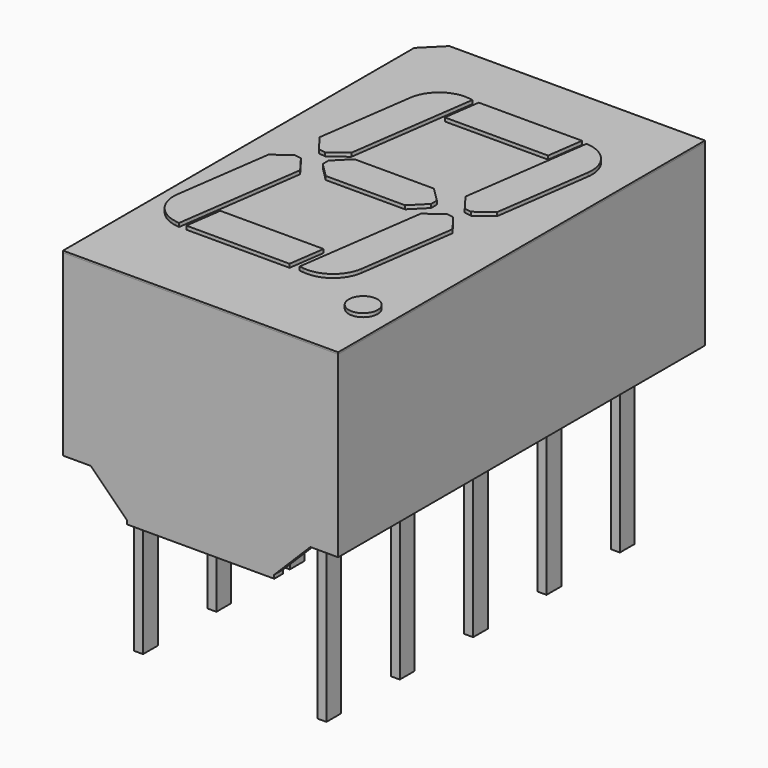
from build123d import *

# Parameters (mm, degrees)
BOX003_W                  = 0.25
BOX003_H                  = 1.5
BOX003_DEPTH              = 1.5
BOX003_ROLL_ANGLE         = 45
BOX002_W                  = 0.25
BOX002_H                  = 0.51
BOX002_DEPTH              = 6
BOX005_W                  = 0.25
BOX005_H                  = 1.5
BOX005_DEPTH              = 1.5
BOX005_ROLL_ANGLE         = 45
BOX004_W                  = 0.25
BOX004_H                  = 0.51
BOX004_DEPTH              = 6
BOX007_W                  = 0.25
BOX007_H                  = 1.5
BOX007_DEPTH              = 1.5
BOX007_ROLL_ANGLE         = 45
BOX006_W                  = 0.25
BOX006_H                  = 0.51
BOX006_DEPTH              = 6
BOX009_W                  = 0.25
BOX009_H                  = 1.5
BOX009_DEPTH              = 1.5
BOX009_ROLL_ANGLE         = 45
BOX008_W                  = 0.25
BOX008_H                  = 0.51
BOX008_DEPTH              = 6
BOX011_W                  = 0.25
BOX011_H                  = 1.5
BOX011_DEPTH              = 1.5
BOX011_ROLL_ANGLE         = 45
BOX010_W                  = 0.25
BOX010_H                  = 0.51
BOX010_DEPTH              = 6
BOX021_W                  = 0.25
BOX021_H                  = 1.5
BOX021_DEPTH              = 1.5
BOX021_ROLL_ANGLE         = 45
BOX020_W                  = 0.25
BOX020_H                  = 0.51
BOX020_DEPTH              = 6
BOX029_W                  = 0.25
BOX029_H                  = 1.5
BOX029_DEPTH              = 1.5
BOX029_ROLL_ANGLE         = 45
BOX028_W                  = 0.25
BOX028_H                  = 0.51
BOX028_DEPTH              = 6
BOX023_W                  = 0.25
BOX023_H                  = 1.5
BOX023_DEPTH              = 1.5
BOX023_ROLL_ANGLE         = 45
BOX022_W                  = 0.25
BOX022_H                  = 0.51
BOX022_DEPTH              = 6
BOX025_W                  = 0.25
BOX025_H                  = 1.5
BOX025_DEPTH              = 1.5
BOX025_ROLL_ANGLE         = 45
BOX024_W                  = 0.25
BOX024_H                  = 0.51
BOX024_DEPTH              = 6
BOX027_W                  = 0.25
BOX027_H                  = 1.5
BOX027_DEPTH              = 1.5
BOX027_ROLL_ANGLE         = 45
BOX026_W                  = 0.25
BOX026_H                  = 0.51
BOX026_DEPTH              = 6
BOX042_W                  = 2
BOX042_H                  = 1
BOX042_DEPTH              = 10
BOX042_PLACEMENT_ANGLE    = 45
BOX041_W                  = 3
BOX041_H                  = 22
BOX041_DEPTH              = 1.1
CHAMFER016_SIZE           = 1
BOX_W                     = 3
BOX_H                     = 22
BOX_DEPTH                 = 1.1
CHAMFER_SIZE              = 1
BOX001_W                  = 20
BOX001_H                  = 12
BOX001_DEPTH              = 1.1
SKETCH_W                  = 7.62
SKETCH_H                  = 12.7
PAD_DEPTH                 = 6.09
BOX033_W                  = 4
BOX033_H                  = 1
BOX033_DEPTH              = 2
BOX033_PLACEMENT_ANGLE    = -8
CHAMFER006_SIZE           = 0.4
CHAMFER007_SIZE           = 0.4
FILLET005_R               = 0.9
BOX032_W                  = 4
BOX032_H                  = 1
BOX032_DEPTH              = 2
BOX032_PLACEMENT_ANGLE    = -8
CHAMFER004_SIZE           = 0.4
CHAMFER005_SIZE           = 0.4
FILLET_R                  = 0.9
BOX043_W                  = 4
BOX043_H                  = 1
BOX043_DEPTH              = 2
BOX043_PLACEMENT_ANGLE    = -8
CHAMFER017_SIZE           = 0.4
CHAMFER018_SIZE           = 0.4
FILLET004_R               = 0.9
BOX037_W                  = 1
BOX037_H                  = 3
BOX037_DEPTH              = 2
CHAMFER012_SIZE           = 0.4
CHAMFER013_SIZE           = 0.4
CHAMFER014_SIZE           = 0.4
CHAMFER015_SIZE           = 0.4
BOX035_W                  = 3
BOX035_H                  = 3
BOX035_DEPTH              = 2
BOX035_PLACEMENT_ANGLE    = -8
BOX036_W                  = 3
BOX036_H                  = 1
BOX036_DEPTH              = 2
BOX036_PLACEMENT_ANGLE    = -8
BOX034_W                  = 1
BOX034_H                  = 4
BOX034_DEPTH              = 2
CYLINDER016_R             = 0.4
CYLINDER016_DEPTH         = 2
BOX030_W                  = 4
BOX030_H                  = 1
BOX030_DEPTH              = 2
BOX030_PLACEMENT_ANGLE    = -8
CHAMFER010_SIZE           = 0.4
CHAMFER011_SIZE           = 0.4
FILLET003_R               = 0.9
BOX039_W                  = 3
BOX039_H                  = 2
BOX039_DEPTH              = 2
BOX039_PLACEMENT_ANGLE    = -8
BOX040_W                  = 3
BOX040_H                  = 1
BOX040_DEPTH              = 2
BOX040_PLACEMENT_ANGLE    = -8
BOX038_W                  = 1
BOX038_H                  = 4
BOX038_DEPTH              = 2
FUSION014_PLACEMENT_ANGLE = 90
BOX045_W                  = 2
BOX045_H                  = 1
BOX045_DEPTH              = 10
BOX045_PLACEMENT_ANGLE    = 45
BOX044_W                  = 7.62
BOX044_H                  = 12.7
BOX044_DEPTH              = 0.05


with BuildPart() as kub003:
    # Box003 → Box003 (new body)
    with BuildSketch(Plane.XY):
        with Locations((0.125, 0.75)):
            Rectangle(BOX003_W, BOX003_H)
    extrude(amount=BOX003_DEPTH)


with BuildPart() as kub003_1:
    # Box003 roll: moved
    add(kub003.part.rotate(Axis((0, 0, 0), (1, 0, 0)), BOX003_ROLL_ANGLE))


with BuildPart() as kub003_2:
    # Box003 placement: moved
    add(kub003_1.part.moved(Location((-0.12, 0, 0.3))))


with BuildPart() as leg001:
    # Box002 → Box002 (new body)
    with BuildSketch(Plane(origin=(-0.12, -0.25, -3.7), x_dir=(1, 0, 0), z_dir=(0, 0, 1))):
        with Locations((0.125, 0.255)):
            Rectangle(BOX002_W, BOX002_H)
    extrude(amount=BOX002_DEPTH)

    # Fusion: union Kub003
    add(kub003_2.part)


with BuildPart() as kub005:
    # Box005 → Box005 (new body)
    with BuildSketch(Plane.XY):
        with Locations((0.125, 0.75)):
            Rectangle(BOX005_W, BOX005_H)
    extrude(amount=BOX005_DEPTH)


with BuildPart() as kub005_1:
    # Box005 roll: moved
    add(kub005.part.rotate(Axis((0, 0, 0), (1, 0, 0)), BOX005_ROLL_ANGLE))


with BuildPart() as kub005_2:
    # Box005 placement: moved
    add(kub005_1.part.moved(Location((-0.12, 0, 0.3))))


with BuildPart() as leg002:
    # Box004 → Box004 (new body)
    with BuildSketch(Plane(origin=(-0.12, -0.2505, -3.7), x_dir=(1, 0, 0), z_dir=(0, 0, 1))):
        with Locations((0.125, 0.255)):
            Rectangle(BOX004_W, BOX004_H)
    extrude(amount=BOX004_DEPTH)

    # Fusion001: union Kub005
    add(kub005_2.part)


with BuildPart() as leg002_1:
    # Fusion001 placement: moved
    add(leg002.part.moved(Location((0, -2.54, 0))))


with BuildPart() as kub007:
    # Box007 → Box007 (new body)
    with BuildSketch(Plane.XY):
        with Locations((0.125, 0.75)):
            Rectangle(BOX007_W, BOX007_H)
    extrude(amount=BOX007_DEPTH)


with BuildPart() as kub007_1:
    # Box007 roll: moved
    add(kub007.part.rotate(Axis((0, 0, 0), (1, 0, 0)), BOX007_ROLL_ANGLE))


with BuildPart() as kub007_2:
    # Box007 placement: moved
    add(kub007_1.part.moved(Location((-0.12, 0, 0.3))))


with BuildPart() as leg003:
    # Box006 → Box006 (new body)
    with BuildSketch(Plane(origin=(-0.12, -0.2505, -3.7), x_dir=(1, 0, 0), z_dir=(0, 0, 1))):
        with Locations((0.125, 0.255)):
            Rectangle(BOX006_W, BOX006_H)
    extrude(amount=BOX006_DEPTH)

    # Fusion002: union Kub007
    add(kub007_2.part)


with BuildPart() as leg003_1:
    # Fusion002 placement: moved
    add(leg003.part.moved(Location((0, -5.08, 0))))


with BuildPart() as kub009:
    # Box009 → Box009 (new body)
    with BuildSketch(Plane.XY):
        with Locations((0.125, 0.75)):
            Rectangle(BOX009_W, BOX009_H)
    extrude(amount=BOX009_DEPTH)


with BuildPart() as kub009_1:
    # Box009 roll: moved
    add(kub009.part.rotate(Axis((0, 0, 0), (1, 0, 0)), BOX009_ROLL_ANGLE))


with BuildPart() as kub009_2:
    # Box009 placement: moved
    add(kub009_1.part.moved(Location((-0.12, 0, 0.3))))


with BuildPart() as leg004:
    # Box008 → Box008 (new body)
    with BuildSketch(Plane(origin=(-0.12, -0.2505, -3.7), x_dir=(1, 0, 0), z_dir=(0, 0, 1))):
        with Locations((0.125, 0.255)):
            Rectangle(BOX008_W, BOX008_H)
    extrude(amount=BOX008_DEPTH)

    # Fusion003: union Kub009
    add(kub009_2.part)


with BuildPart() as leg004_1:
    # Fusion003 placement: moved
    add(leg004.part.moved(Location((0, -7.62, 0))))


with BuildPart() as kub011:
    # Box011 → Box011 (new body)
    with BuildSketch(Plane.XY):
        with Locations((0.125, 0.75)):
            Rectangle(BOX011_W, BOX011_H)
    extrude(amount=BOX011_DEPTH)


with BuildPart() as kub011_1:
    # Box011 roll: moved
    add(kub011.part.rotate(Axis((0, 0, 0), (1, 0, 0)), BOX011_ROLL_ANGLE))


with BuildPart() as kub011_2:
    # Box011 placement: moved
    add(kub011_1.part.moved(Location((-0.12, 0, 0.3))))


with BuildPart() as leg005:
    # Box010 → Box010 (new body)
    with BuildSketch(Plane(origin=(-0.12, -0.2505, -3.7), x_dir=(1, 0, 0), z_dir=(0, 0, 1))):
        with Locations((0.125, 0.255)):
            Rectangle(BOX010_W, BOX010_H)
    extrude(amount=BOX010_DEPTH)

    # Fusion004: union Kub011
    add(kub011_2.part)


with BuildPart() as leg005_1:
    # Fusion004 placement: moved
    add(leg005.part.moved(Location((0, -10.16, 0))))


with BuildPart() as kub021:
    # Box021 → Box021 (new body)
    with BuildSketch(Plane.XY):
        with Locations((0.125, 0.75)):
            Rectangle(BOX021_W, BOX021_H)
    extrude(amount=BOX021_DEPTH)


with BuildPart() as kub021_1:
    # Box021 roll: moved
    add(kub021.part.rotate(Axis((0, 0, 0), (1, 0, 0)), BOX021_ROLL_ANGLE))


with BuildPart() as kub021_2:
    # Box021 placement: moved
    add(kub021_1.part.moved(Location((-0.12, 0, 0.3))))


with BuildPart() as leg006:
    # Box020 → Box020 (new body)
    with BuildSketch(Plane(origin=(-0.12, -0.2505, -3.7), x_dir=(1, 0, 0), z_dir=(0, 0, 1))):
        with Locations((0.125, 0.255)):
            Rectangle(BOX020_W, BOX020_H)
    extrude(amount=BOX020_DEPTH)

    # Fusion009: union Kub021
    add(kub021_2.part)


with BuildPart() as leg006_1:
    # Fusion009 placement: moved
    add(leg006.part.moved(Location((5.08, -10.16, 0))))


with BuildPart() as kub029:
    # Box029 → Box029 (new body)
    with BuildSketch(Plane.XY):
        with Locations((0.125, 0.75)):
            Rectangle(BOX029_W, BOX029_H)
    extrude(amount=BOX029_DEPTH)


with BuildPart() as kub029_1:
    # Box029 roll: moved
    add(kub029.part.rotate(Axis((0, 0, 0), (1, 0, 0)), BOX029_ROLL_ANGLE))


with BuildPart() as kub029_2:
    # Box029 placement: moved
    add(kub029_1.part.moved(Location((-0.12, 0, 0.3))))


with BuildPart() as leg010:
    # Box028 → Box028 (new body)
    with BuildSketch(Plane(origin=(-0.12, -0.2505, -3.7), x_dir=(1, 0, 0), z_dir=(0, 0, 1))):
        with Locations((0.125, 0.255)):
            Rectangle(BOX028_W, BOX028_H)
    extrude(amount=BOX028_DEPTH)

    # Fusion013: union Kub029
    add(kub029_2.part)


with BuildPart() as leg010_1:
    # Fusion013 placement: moved
    add(leg010.part.moved(Location((5.08, 0, 0))))


with BuildPart() as kub023:
    # Box023 → Box023 (new body)
    with BuildSketch(Plane.XY):
        with Locations((0.125, 0.75)):
            Rectangle(BOX023_W, BOX023_H)
    extrude(amount=BOX023_DEPTH)


with BuildPart() as kub023_1:
    # Box023 roll: moved
    add(kub023.part.rotate(Axis((0, 0, 0), (1, 0, 0)), BOX023_ROLL_ANGLE))


with BuildPart() as kub023_2:
    # Box023 placement: moved
    add(kub023_1.part.moved(Location((-0.12, 0, 0.3))))


with BuildPart() as leg007:
    # Box022 → Box022 (new body)
    with BuildSketch(Plane(origin=(-0.12, -0.2505, -3.7), x_dir=(1, 0, 0), z_dir=(0, 0, 1))):
        with Locations((0.125, 0.255)):
            Rectangle(BOX022_W, BOX022_H)
    extrude(amount=BOX022_DEPTH)

    # Fusion010: union Kub023
    add(kub023_2.part)


with BuildPart() as leg007_1:
    # Fusion010 placement: moved
    add(leg007.part.moved(Location((5.08, -7.62, 0))))


with BuildPart() as kub025:
    # Box025 → Box025 (new body)
    with BuildSketch(Plane.XY):
        with Locations((0.125, 0.75)):
            Rectangle(BOX025_W, BOX025_H)
    extrude(amount=BOX025_DEPTH)


with BuildPart() as kub025_1:
    # Box025 roll: moved
    add(kub025.part.rotate(Axis((0, 0, 0), (1, 0, 0)), BOX025_ROLL_ANGLE))


with BuildPart() as kub025_2:
    # Box025 placement: moved
    add(kub025_1.part.moved(Location((-0.12, 0, 0.3))))


with BuildPart() as leg008:
    # Box024 → Box024 (new body)
    with BuildSketch(Plane(origin=(-0.12, -0.2505, -3.7), x_dir=(1, 0, 0), z_dir=(0, 0, 1))):
        with Locations((0.125, 0.255)):
            Rectangle(BOX024_W, BOX024_H)
    extrude(amount=BOX024_DEPTH)

    # Fusion011: union Kub025
    add(kub025_2.part)


with BuildPart() as leg008_1:
    # Fusion011 placement: moved
    add(leg008.part.moved(Location((5.08, -5.08, 0))))


with BuildPart() as kub027:
    # Box027 → Box027 (new body)
    with BuildSketch(Plane.XY):
        with Locations((0.125, 0.75)):
            Rectangle(BOX027_W, BOX027_H)
    extrude(amount=BOX027_DEPTH)


with BuildPart() as kub027_1:
    # Box027 roll: moved
    add(kub027.part.rotate(Axis((0, 0, 0), (1, 0, 0)), BOX027_ROLL_ANGLE))


with BuildPart() as kub027_2:
    # Box027 placement: moved
    add(kub027_1.part.moved(Location((-0.12, 0, 0.3))))


with BuildPart() as leg009:
    # Box026 → Box026 (new body)
    with BuildSketch(Plane(origin=(-0.12, -0.2505, -3.7), x_dir=(1, 0, 0), z_dir=(0, 0, 1))):
        with Locations((0.125, 0.255)):
            Rectangle(BOX026_W, BOX026_H)
    extrude(amount=BOX026_DEPTH)

    # Fusion012: union Kub027
    add(kub027_2.part)


with BuildPart() as leg009_1:
    # Fusion012 placement: moved
    add(leg009.part.moved(Location((5.08, -2.54, 0))))


with BuildPart() as kub042:
    # Box042 → Box042 (new body)
    with BuildSketch(Plane.XY):
        with Locations((1, 0.5)):
            Rectangle(BOX042_W, BOX042_H)
    extrude(amount=BOX042_DEPTH)


with BuildPart() as kub042_1:
    # Box042 placement: moved
    add(kub042.part.moved(Location((-1.5, 0.5, 0))).rotate(Axis((-1.5, 0.5, 0), (0, 0, 1)), BOX042_PLACEMENT_ANGLE))


with BuildPart() as chamfer016:
    # Box041 → Box041 (new body)
    with BuildSketch(Plane(origin=(-2.5, -18, 0), x_dir=(1, 0, 0), z_dir=(0, 0, 1))):
        with Locations((1.5, 11)):
            Rectangle(BOX041_W, BOX041_H)
    extrude(amount=BOX041_DEPTH)

    # Chamfer016
    chamfer016_edges = [chamfer016.edges().sort_by_distance(p)[0] for p in [
        (0.5, -7, 1.1),
    ]]
    chamfer(chamfer016_edges, length=CHAMFER016_SIZE)


with BuildPart() as chamfer_body:
    # Box → Box (new body)
    with BuildSketch(Plane(origin=(4.58, -19, 0), x_dir=(1, 0, 0), z_dir=(0, 0, 1))):
        with Locations((1.5, 11)):
            Rectangle(BOX_W, BOX_H)
    extrude(amount=BOX_DEPTH)

    # Chamfer
    chamfer_edges = [chamfer_body.edges().sort_by_distance(p)[0] for p in [
        (4.58, -8, 1.1),
    ]]
    chamfer(chamfer_edges, length=CHAMFER_SIZE)


with BuildPart() as kub001:
    # Box001 → Box001 (new body)
    with BuildSketch(Plane(origin=(-6, -11.12, 0), x_dir=(1, 0, 0), z_dir=(0, 0, 1))):
        with Locations((10, 6)):
            Rectangle(BOX001_W, BOX001_H)
    extrude(amount=BOX001_DEPTH)


with BuildPart() as main_body:
    # Sketch → Pad (new body)
    with BuildSketch(Plane.XY):
        with Locations((2.54, -5.08)):
            Rectangle(SKETCH_W, SKETCH_H)
    extrude(amount=PAD_DEPTH)

    # Cut: cut Kub001
    add(kub001.part, mode=Mode.SUBTRACT)

    # Cut006: cut Chamfer body
    add(chamfer_body.part, mode=Mode.SUBTRACT)

    # Cut007: cut Chamfer016
    add(chamfer016.part, mode=Mode.SUBTRACT)

    # Cut008: cut Kub042
    add(kub042_1.part, mode=Mode.SUBTRACT)


with BuildPart() as upper_right:
    # Box033 → Box033 (new body)
    with BuildSketch(Plane.XY):
        with Locations((2, 0.5)):
            Rectangle(BOX033_W, BOX033_H)
    extrude(amount=BOX033_DEPTH)


with BuildPart() as upper_right_1:
    # Box033 placement: moved
    add(upper_right.part.moved(Location((9, 13, 0))).rotate(Axis((9, 13, 0), (0, 0, 1)), BOX033_PLACEMENT_ANGLE))

    # Chamfer006
    chamfer006_edges = [upper_right_1.edges().sort_by_distance(p)[0] for p in [
        (9.139173, 13.990268, 1),
    ]]
    chamfer(chamfer006_edges, length=CHAMFER006_SIZE)

    # Chamfer007
    chamfer007_edges = [upper_right_1.edges().sort_by_distance(p)[0] for p in [
        (9, 13, 1),
    ]]
    chamfer(chamfer007_edges, length=CHAMFER007_SIZE)


with BuildPart() as upper_right_2:
    # Chamfer007 placement: moved
    add(upper_right_1.part.moved(Location((-3.7, -1, 0))))

    # Fillet005
    fillet005_edges = [upper_right_2.edges().sort_by_distance(p)[0] for p in [
        (9.261072, 11.443308, 1),
    ]]
    fillet(fillet005_edges, radius=FILLET005_R)


with BuildPart() as upper_left:
    # Box032 → Box032 (new body)
    with BuildSketch(Plane.XY):
        with Locations((2, 0.5)):
            Rectangle(BOX032_W, BOX032_H)
    extrude(amount=BOX032_DEPTH)


with BuildPart() as upper_left_1:
    # Box032 placement: moved
    add(upper_left.part.moved(Location((9, 18, 0))).rotate(Axis((9, 18, 0), (0, 0, 1)), BOX032_PLACEMENT_ANGLE))

    # Chamfer004
    chamfer004_edges = [upper_left_1.edges().sort_by_distance(p)[0] for p in [
        (9, 18, 1),
    ]]
    chamfer(chamfer004_edges, length=CHAMFER004_SIZE)

    # Chamfer005
    chamfer005_edges = [upper_left_1.edges().sort_by_distance(p)[0] for p in [
        (9.139173, 18.990268, 1),
    ]]
    chamfer(chamfer005_edges, length=CHAMFER005_SIZE)


with BuildPart() as upper_left_2:
    # Chamfer005 placement: moved
    add(upper_left_1.part.moved(Location((-3.5, -1.8, 0))))

    # Fillet
    fillet_edges = [upper_left_2.edges().sort_by_distance(p)[0] for p in [
        (9.600245, 16.633576, 1),
    ]]
    fillet(fillet_edges, radius=FILLET_R)


with BuildPart() as down_right:
    # Box043 → Box043 (new body)
    with BuildSketch(Plane.XY):
        with Locations((2, 0.5)):
            Rectangle(BOX043_W, BOX043_H)
    extrude(amount=BOX043_DEPTH)


with BuildPart() as down_right_1:
    # Box043 placement: moved
    add(down_right.part.moved(Location((0, 18, 0))).rotate(Axis((0, 18, 0), (0, 0, 1)), BOX043_PLACEMENT_ANGLE))

    # Chamfer017
    chamfer017_edges = [down_right_1.edges().sort_by_distance(p)[0] for p in [
        (3.961072, 17.443308, 1),
    ]]
    chamfer(chamfer017_edges, length=CHAMFER017_SIZE)

    # Chamfer018
    chamfer018_edges = [down_right_1.edges().sort_by_distance(p)[0] for p in [
        (4.100245, 18.433576, 1),
    ]]
    chamfer(chamfer018_edges, length=CHAMFER018_SIZE)

    # Fillet004
    fillet004_edges = [down_right_1.edges().sort_by_distance(p)[0] for p in [
        (0, 18, 1),
    ]]
    fillet(fillet004_edges, radius=FILLET004_R)


with BuildPart() as down_right_2:
    # Fillet004 placement: moved
    add(down_right_1.part.moved(Location((0.9, -5.3, 0))))


with BuildPart() as middle_line:
    # Box037 → Box037 (new body)
    with BuildSketch(Plane(origin=(-10, 14, 0), x_dir=(1, 0, 0), z_dir=(0, 0, 1))):
        with Locations((0.5, 1.5)):
            Rectangle(BOX037_W, BOX037_H)
    extrude(amount=BOX037_DEPTH)

    # Chamfer012
    chamfer012_edges = [middle_line.edges().sort_by_distance(p)[0] for p in [
        (-9, 14, 1),
    ]]
    chamfer(chamfer012_edges, length=CHAMFER012_SIZE)

    # Chamfer013
    chamfer013_edges = [middle_line.edges().sort_by_distance(p)[0] for p in [
        (-9, 17, 1),
    ]]
    chamfer(chamfer013_edges, length=CHAMFER013_SIZE)

    # Chamfer014
    chamfer014_edges = [middle_line.edges().sort_by_distance(p)[0] for p in [
        (-10, 14, 1),
    ]]
    chamfer(chamfer014_edges, length=CHAMFER014_SIZE)

    # Chamfer015
    chamfer015_edges = [middle_line.edges().sort_by_distance(p)[0] for p in [
        (-10, 17, 1),
    ]]
    chamfer(chamfer015_edges, length=CHAMFER015_SIZE)


with BuildPart() as middle_line_1:
    # Chamfer015 placement: moved
    add(middle_line.part.moved(Location((14.7, -0.7, 0))))


with BuildPart() as kub035:
    # Box035 → Box035 (new body)
    with BuildSketch(Plane.XY):
        with Locations((1.5, 1.5)):
            Rectangle(BOX035_W, BOX035_H)
    extrude(amount=BOX035_DEPTH)


with BuildPart() as kub035_1:
    # Box035 placement: moved
    add(kub035.part.moved(Location((-4, 17.14, 0))).rotate(Axis((-4, 17.14, 0), (0, 0, 1)), BOX035_PLACEMENT_ANGLE))


with BuildPart() as kub036:
    # Box036 → Box036 (new body)
    with BuildSketch(Plane.XY):
        with Locations((1.5, 0.5)):
            Rectangle(BOX036_W, BOX036_H)
    extrude(amount=BOX036_DEPTH)


with BuildPart() as kub036_1:
    # Box036 placement: moved
    add(kub036.part.moved(Location((-4, 13.27, 0))).rotate(Axis((-4, 13.27, 0), (0, 0, 1)), BOX036_PLACEMENT_ANGLE))


with BuildPart() as down_middle:
    # Box034 → Box034 (new body)
    with BuildSketch(Plane(origin=(-3, 14, 0), x_dir=(1, 0, 0), z_dir=(0, 0, 1))):
        with Locations((0.5, 2)):
            Rectangle(BOX034_W, BOX034_H)
    extrude(amount=BOX034_DEPTH)

    # Cut002: cut Kub036
    add(kub036_1.part, mode=Mode.SUBTRACT)

    # Cut003: cut Kub035
    add(kub035_1.part, mode=Mode.SUBTRACT)


with BuildPart() as down_middle_1:
    # Cut003 placement: moved
    add(down_middle.part.moved(Location((4, -0.2, 0))))


with BuildPart() as dot:
    # Cylinder016 → Cylinder016 (new body)
    with BuildSketch(Plane(origin=(0.5, 11.5, 0), x_dir=(1, 0, 0), z_dir=(0, 0, 1))):
        Circle(CYLINDER016_R)
    extrude(amount=CYLINDER016_DEPTH)


with BuildPart() as down_left:
    # Box030 → Box030 (new body)
    with BuildSketch(Plane.XY):
        with Locations((2, 0.5)):
            Rectangle(BOX030_W, BOX030_H)
    extrude(amount=BOX030_DEPTH)


with BuildPart() as down_left_1:
    # Box030 placement: moved
    add(down_left.part.moved(Location((0, 18, 0))).rotate(Axis((0, 18, 0), (0, 0, 1)), BOX030_PLACEMENT_ANGLE))

    # Chamfer010
    chamfer010_edges = [down_left_1.edges().sort_by_distance(p)[0] for p in [
        (3.961072, 17.443308, 1),
    ]]
    chamfer(chamfer010_edges, length=CHAMFER010_SIZE)

    # Chamfer011
    chamfer011_edges = [down_left_1.edges().sort_by_distance(p)[0] for p in [
        (4.100245, 18.433576, 1),
    ]]
    chamfer(chamfer011_edges, length=CHAMFER011_SIZE)

    # Fillet003
    fillet003_edges = [down_left_1.edges().sort_by_distance(p)[0] for p in [
        (0.139173, 18.990268, 1),
    ]]
    fillet(fillet003_edges, radius=FILLET003_R)


with BuildPart() as down_left_2:
    # Fillet003 placement: moved
    add(down_left_1.part.moved(Location((1, -1, 0))))


with BuildPart() as kub039:
    # Box039 → Box039 (new body)
    with BuildSketch(Plane.XY):
        with Locations((1.5, 1)):
            Rectangle(BOX039_W, BOX039_H)
    extrude(amount=BOX039_DEPTH)


with BuildPart() as kub039_1:
    # Box039 placement: moved
    add(kub039.part.moved(Location((-5, 17.14, 0))).rotate(Axis((-5, 17.14, 0), (0, 0, 1)), BOX039_PLACEMENT_ANGLE))


with BuildPart() as kub040:
    # Box040 → Box040 (new body)
    with BuildSketch(Plane.XY):
        with Locations((1.5, 0.5)):
            Rectangle(BOX040_W, BOX040_H)
    extrude(amount=BOX040_DEPTH)


with BuildPart() as kub040_1:
    # Box040 placement: moved
    add(kub040.part.moved(Location((-5, 13.27, 0))).rotate(Axis((-5, 13.27, 0), (0, 0, 1)), BOX040_PLACEMENT_ANGLE))


with BuildPart() as digit:
    # Box038 → Box038 (new body)
    with BuildSketch(Plane(origin=(-4, 14, 0), x_dir=(1, 0, 0), z_dir=(0, 0, 1))):
        with Locations((0.5, 2)):
            Rectangle(BOX038_W, BOX038_H)
    extrude(amount=BOX038_DEPTH)

    # Cut004: cut Kub040
    add(kub040_1.part, mode=Mode.SUBTRACT)

    # Cut005: cut Kub039
    add(kub039_1.part, mode=Mode.SUBTRACT)


with BuildPart() as digit_1:
    # Cut005 placement: moved
    add(digit.part.moved(Location((12.45, -1.4, 0))))

    # Fusion014: union Upper right, Upper left, Down right, Middle line, Down middle, Dot, Down left
    add(upper_right_2.part)
    add(upper_left_2.part)
    add(down_right_2.part)
    add(middle_line_1.part)
    add(down_middle_1.part)
    add(dot.part)
    add(down_left_2.part)


with BuildPart() as digit_2:
    # Fusion014 placement: moved
    add(digit_1.part.moved(Location((17, -10, 4.2))).rotate(Axis((17, -10, 4.2), (0, 0, 1)), FUSION014_PLACEMENT_ANGLE))


with BuildPart() as kub044:
    # Box045 → Box045 (new body)
    with BuildSketch(Plane.XY):
        with Locations((1, 0.5)):
            Rectangle(BOX045_W, BOX045_H)
    extrude(amount=BOX045_DEPTH)


with BuildPart() as kub044_1:
    # Box045 placement: moved
    add(kub044.part.moved(Location((-1.5, 0.5, 0))).rotate(Axis((-1.5, 0.5, 0), (0, 0, 1)), BOX045_PLACEMENT_ANGLE))


with BuildPart() as top:
    # Box044 → Box044 (new body)
    with BuildSketch(Plane(origin=(-1.27, -11.43, 6.05), x_dir=(1, 0, 0), z_dir=(0, 0, 1))):
        with Locations((3.81, 6.35)):
            Rectangle(BOX044_W, BOX044_H)
    extrude(amount=BOX044_DEPTH)

    # Cut009: cut Kub044
    add(kub044_1.part, mode=Mode.SUBTRACT)


solid = Compound([leg001.part, leg002_1.part, leg003_1.part, leg004_1.part, leg005_1.part, leg006_1.part, leg010_1.part, leg007_1.part, leg008_1.part, leg009_1.part, main_body.part, digit_2.part, top.part])
